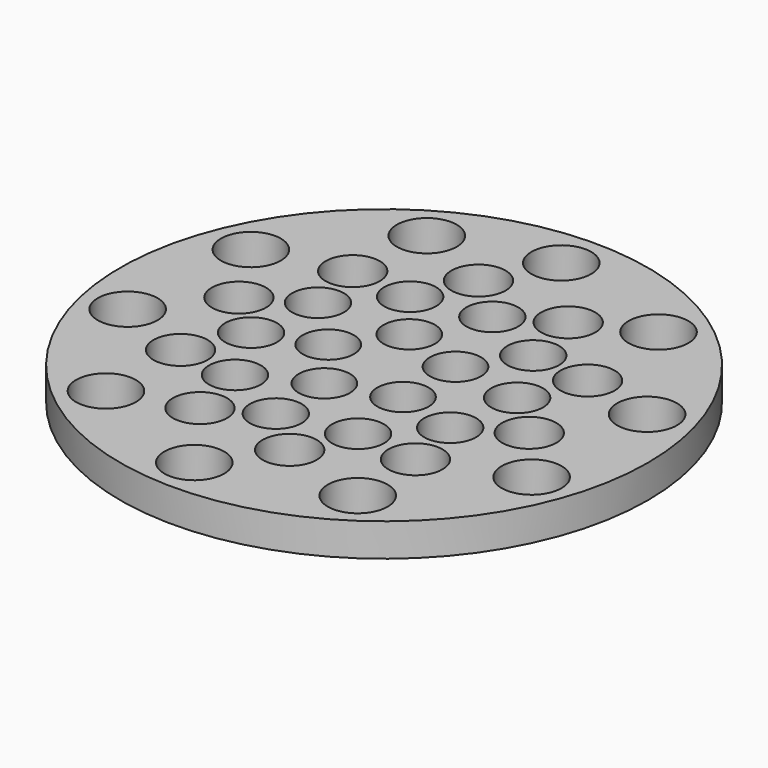
from build123d import *

# Parameters (mm, degrees)
F0_R     = 20.32
F0_R_2   = 2.304435
F0_R_3   = 2.085737
F0_R_4   = 1.997354
F0_R_5   = 1.976853
F1_DEPTH = 2.54


with BuildPart() as f1:
    # F0 (on Top) → F1 (new body)
    with BuildSketch(Plane.XY):
        Circle(F0_R)
        with Locations((-10.961344, -13.063221)):
            Circle(F0_R_2, mode=Mode.SUBTRACT)
        with Locations((-0.991534, -17.023973)):
            Circle(F0_R_2, mode=Mode.SUBTRACT)
        with Locations((-5.157645, -11.271008)):
            Circle(F0_R_3, mode=Mode.SUBTRACT)
        with Locations((-10.797555, -6.086849)):
            Circle(F0_R_3, mode=Mode.SUBTRACT)
        with Locations((-16.593163, -3.932652)):
            Circle(F0_R_2, mode=Mode.SUBTRACT)
        with Locations((-6.209564, -6.588545)):
            Circle(F0_R_4, mode=Mode.SUBTRACT)
        with Locations((-1.150993, -8.980135)):
            Circle(F0_R_4, mode=Mode.SUBTRACT)
        with Locations((-8.896293, -1.680355)):
            Circle(F0_R_4, mode=Mode.SUBTRACT)
        with Locations((-1.327734, -4.086345)):
            Circle(F0_R_5, mode=Mode.SUBTRACT)
        with Locations((-4.296637, 0)):
            Circle(F0_R_5, mode=Mode.SUBTRACT)
        with Locations((2.452309, -12.150024)):
            Circle(F0_R_3, mode=Mode.SUBTRACT)
        with Locations((9.37068, -14.247426)):
            Circle(F0_R_2, mode=Mode.SUBTRACT)
        with Locations((4.347218, -7.941619)):
            Circle(F0_R_4, mode=Mode.SUBTRACT)
        with Locations((9.125565, -8.388145)):
            Circle(F0_R_3, mode=Mode.SUBTRACT)
        with Locations((3.476052, -2.5255)):
            Circle(F0_R_5, mode=Mode.SUBTRACT)
        with Locations((8.18494, -3.869674)):
            Circle(F0_R_4, mode=Mode.SUBTRACT)
        with Locations((16.024413, -5.832409)):
            Circle(F0_R_2, mode=Mode.SUBTRACT)
        with Locations((12.313165, -1.422279)):
            Circle(F0_R_3, mode=Mode.SUBTRACT)
        with Locations((-12.313165, 1.422279)):
            Circle(F0_R_3, mode=Mode.SUBTRACT)
        with Locations((-15.658177, 6.754278)):
            Circle(F0_R_2, mode=Mode.SUBTRACT)
        with Locations((-8.18494, 3.869674)):
            Circle(F0_R_4, mode=Mode.SUBTRACT)
        with Locations((-1.327734, 4.086345)):
            Circle(F0_R_5, mode=Mode.SUBTRACT)
        with Locations((-9.125565, 8.388145)):
            Circle(F0_R_3, mode=Mode.SUBTRACT)
        with Locations((-4.347218, 7.941619)):
            Circle(F0_R_4, mode=Mode.SUBTRACT)
        with Locations((-8.526412, 14.768179)):
            Circle(F0_R_2, mode=Mode.SUBTRACT)
        with Locations((-2.452309, 12.150024)):
            Circle(F0_R_3, mode=Mode.SUBTRACT)
        with Locations((0, 17.052824)):
            Circle(F0_R_2, mode=Mode.SUBTRACT)
        with Locations((3.476052, 2.5255)):
            Circle(F0_R_5, mode=Mode.SUBTRACT)
        with Locations((8.896293, 1.680355)):
            Circle(F0_R_4, mode=Mode.SUBTRACT)
        with Locations((1.150993, 8.980135)):
            Circle(F0_R_4, mode=Mode.SUBTRACT)
        with Locations((6.209564, 6.588545)):
            Circle(F0_R_4, mode=Mode.SUBTRACT)
        with Locations((16.336426, 4.890805)):
            Circle(F0_R_2, mode=Mode.SUBTRACT)
        with Locations((10.797555, 6.086849)):
            Circle(F0_R_3, mode=Mode.SUBTRACT)
        with Locations((5.157645, 11.271008)):
            Circle(F0_R_3, mode=Mode.SUBTRACT)
        with Locations((10.18324, 13.678465)):
            Circle(F0_R_2, mode=Mode.SUBTRACT)
    extrude(amount=F1_DEPTH)


solid = f1.part
